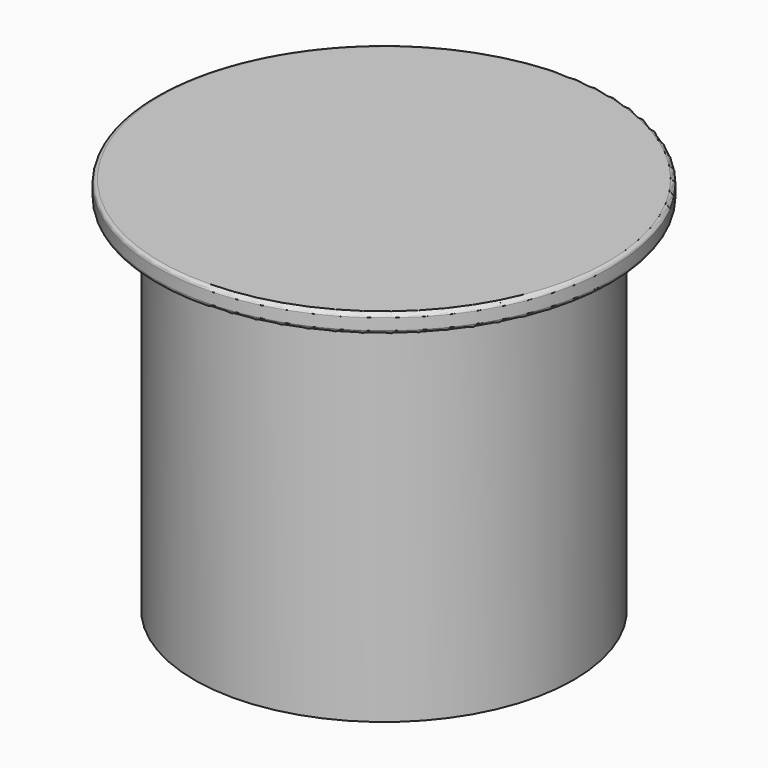
from build123d import *

# Parameters (mm, degrees)
F0_R     = 50
F1_DEPTH = 100
F2_R     = 60
F3_DEPTH = 5
F4_R     = 1


with BuildPart() as f1:
    # F0 (on Top) → F1 (new body)
    with BuildSketch(Plane.XY):
        Circle(F0_R)
    extrude(amount=F1_DEPTH)

    # F2 (on face) → F3 (join)
    with BuildSketch(Plane.XY.offset(100)):
        Circle(F2_R)
    extrude(amount=-F3_DEPTH)

    # F4
    f4_edges = [f1.edges().sort_by_distance(p)[0] for p in [
        (60, 0, 97.5),
        (-60, 0, 100),
        (-60, 0, 95),
    ]]
    fillet(f4_edges, radius=F4_R)


solid = f1.part
